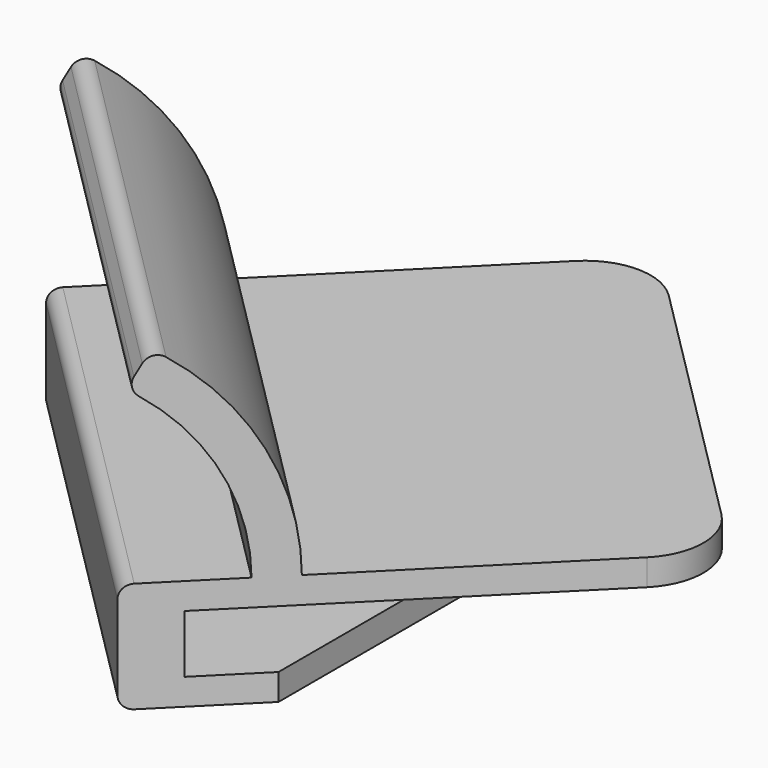
from build123d import *

# Parameters (mm, degrees)
F2_DEPTH      = 2
F2_DEPTH_BACK = 6.4
F3_W          = 32.5771644663
F3_H          = 4.4
F4_DEPTH      = 56.5738534806
F7_DEPTH      = 19.1421356237
F7_DEPTH_BACK = 19.1421356237
F9_DEPTH      = 2
F0_R          = 2.75
F10_DEPTH     = 0.8
F11_R         = 0.4
F12_R         = 1
F13_R         = 5


with BuildPart() as f2:
    # F1 (on Top) → F2 (new body, two sides)
    with BuildSketch(Plane.XY) as f2_sk:
        Polygon((-8.7928932188, -35.8639610307), (17.0710678119, -10), (-10, 17.0710678119), (-35.8639610307, -8.7928932188), align=None)
    extrude(amount=F2_DEPTH)
    extrude(f2_sk.sketch, amount=-F2_DEPTH_BACK)

    # F3 (on face) → F4 (cut, through all)
    with BuildSketch(Plane(origin=(13.5355339059, -13.5355339059, 0), x_dir=(0.7071067812, 0.7071067812, 0), z_dir=(0.7071067812, -0.7071067812, 0))):
        with Locations((-11.2885822331, -2.2)):
            Rectangle(F3_W, F3_H)
    extrude(amount=-F4_DEPTH, mode=Mode.SUBTRACT)

    # F6 (on face) → F7 (join, two sides)
    with BuildSketch(Plane(origin=(0, 0, 0), x_dir=(0.7071067812, 0.7071067812, 0), z_dir=(0.7071067812, -0.7071067812, 0))) as f7_sk:
        with BuildLine():
            Line((-23.5771644663, 2), (-20.5771644663, 2))
            ThreePointArc((-20.5771644663, 2), (-22.9887071982, 11), (-29.5771644663, 17.5884572681))
            Line((-29.5771644663, 17.5884572681), (-31.0771644663, 14.9903810568))
            ThreePointArc((-31.0771644663, 14.9903810568), (-25.5867834095, 9.5), (-23.5771644663, 2))
        make_face()
    extrude(amount=-F7_DEPTH)
    extrude(f7_sk.sketch, amount=F7_DEPTH_BACK)

    # F8 (on face) → F9 (cut, through all)
    with BuildSketch(Plane(origin=(0, 0, -6.4), x_dir=(1, 0, 0), z_dir=(0, 0, -1))):
        Polygon((17.0710678119, 10), (-2, 29.0710678119), (-2, 2), (-29.0710678119, 2), (-10, -17.0710678119), align=None)
    extrude(amount=-F9_DEPTH, mode=Mode.SUBTRACT)

    # F0 (on Top) → F10 (join)
    with BuildSketch(Plane.XY):
        with Locations((10, -10)):
            Circle(F0_R)
        with Locations((-10, 10)):
            Circle(F0_R)
    extrude(amount=-F10_DEPTH)

    # F11
    f11_edges = [f2.edges().sort_by_distance(p)[0] for p in [
        (7.25, -10, -0.8),
        (-12.75, 10, -0.8),
    ]]
    fillet(f11_edges, radius=F11_R)

    # F12
    f12_edges = [f2.edges().sort_by_distance(p)[0] for p in [
        (-21.974874, -21.974874, 14.990381),
        (-20.914214, -20.914214, 17.588457),
        (-22.328427, -22.328427, 2),
        (-22.328427, -22.328427, -6.4),
    ]]
    fillet(f12_edges, radius=F12_R)

    # F13
    f13_edges = [f2.edges().sort_by_distance(p)[0] for p in [
        (17.071068, -10, 1),
        (-10, 17.071068, 1),
    ]]
    fillet(f13_edges, radius=F13_R)


solid = f2.part
